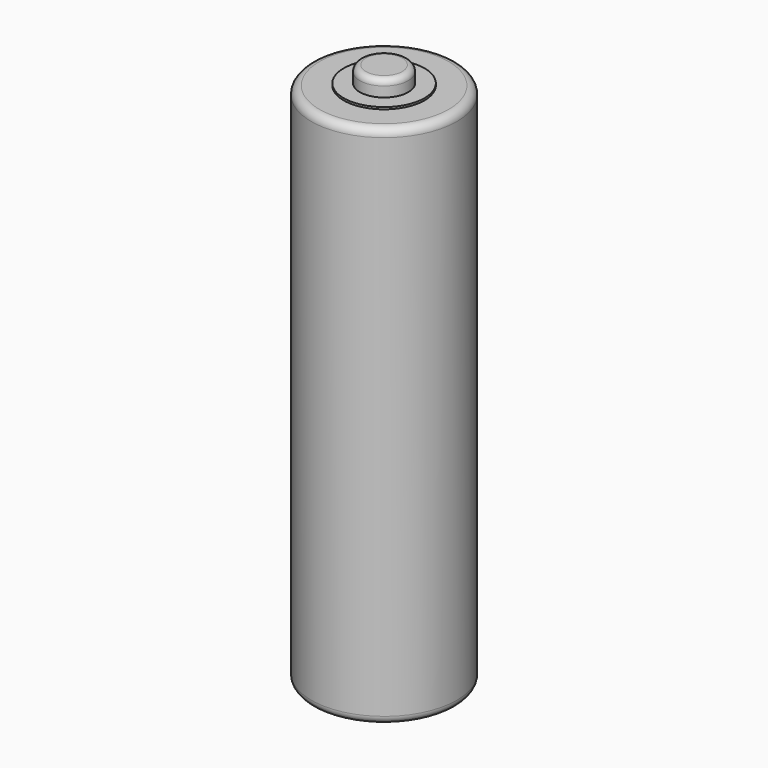
from build123d import *

# Parameters (mm, degrees)
SKETCH_R     = 9
PAD_DEPTH    = 65
SKETCH001_R  = 3
PAD001_DEPTH = 2.25
FILLET_R     = 0.75
FILLET001_R  = 1
SKETCH002_R  = 5
PAD002_DEPTH = 0.25
SKETCH003_R  = 5
PAD003_DEPTH = 0.25


with BuildPart() as part:
    # Sketch → Pad (new body)
    with BuildSketch(Plane.XY):
        Circle(SKETCH_R)
    extrude(amount=PAD_DEPTH)

    # Sketch001 (on Face3 of Pad) → Pad001 (join)
    with BuildSketch(Plane.XY.offset(65)):
        Circle(SKETCH001_R)
    extrude(amount=PAD001_DEPTH)

    # Fillet
    fillet_edges = [part.edges().sort_by_distance(p)[0] for p in [
        (-3, 0, 67.25),
    ]]
    fillet(fillet_edges, radius=FILLET_R)

    # Fillet001
    fillet001_edges = [part.edges().sort_by_distance(p)[0] for p in [
        (-9, 0, 0),
        (-9, 0, 65),
    ]]
    fillet(fillet001_edges, radius=FILLET001_R)

    # Sketch002 (on Face1 of Fillet001) → Pad002 (join)
    with BuildSketch(Plane.XY.offset(65)):
        Circle(SKETCH002_R)
    extrude(amount=PAD002_DEPTH)

    # Sketch003 (on Face8 of Pad002) → Pad003 (join)
    with BuildSketch(Plane(origin=(0, 0, 0), x_dir=(1, 0, 0), z_dir=(0, 0, -1))):
        Circle(SKETCH003_R)
    extrude(amount=PAD003_DEPTH)


solid = part.part
